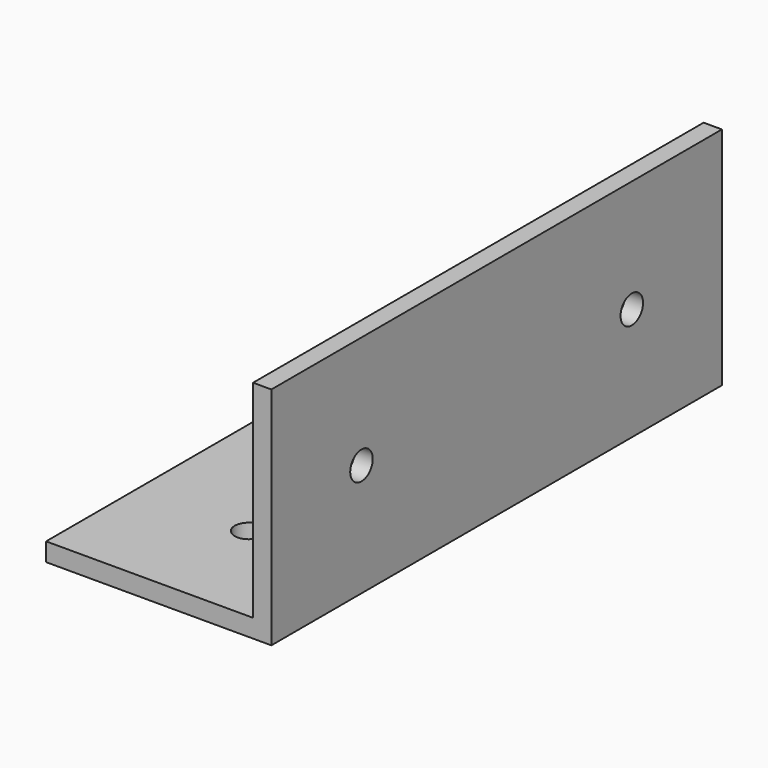
from build123d import *

# Parameters (mm, degrees)
F0_W     = 4.1275
F0_H     = 46.6725
F0_H_2   = 4.1275
F0_W_2   = 46.6725
F1_DEPTH = 127
F4_D     = 6.35
F5_D     = 6.35
F6_D     = 6.35
F7_D     = 6.35


with BuildPart() as f1:
    # F0 (on Front) → F1 (new body)
    with BuildSketch(Plane.XZ):
        with Locations((-64.07842, -10.049134)):
            Rectangle(F0_W, F0_H)
        with Locations((-64.07842, -35.449134)):
            Rectangle(F0_W, F0_H_2)
        with Locations((-89.47842, -35.449134)):
            Rectangle(F0_W_2, F0_H_2)
    extrude(amount=F1_DEPTH)

    # F4 (through all)
    with Locations(Plane.YZ.offset(-62.01467)):
        with Locations((-101.6, -12.112884)):
            Hole(F4_D / 2)

    # F5 (through all)
    with Locations(Plane(origin=(0, 0, -37.512884), x_dir=(1, 0, 0), z_dir=(0, 0, -1))):
        with Locations((-87.41467, 101.6)):
            Hole(F5_D / 2)

    # F6 (through all)
    with Locations(Plane.YZ.offset(-62.01467)):
        with Locations((-25.4, -12.112884)):
            Hole(F6_D / 2)

    # F7 (through all)
    with Locations(Plane(origin=(0, 0, -37.512884), x_dir=(1, 0, 0), z_dir=(0, 0, -1))):
        with Locations((-87.41467, 25.4)):
            Hole(F7_D / 2)


solid = f1.part
